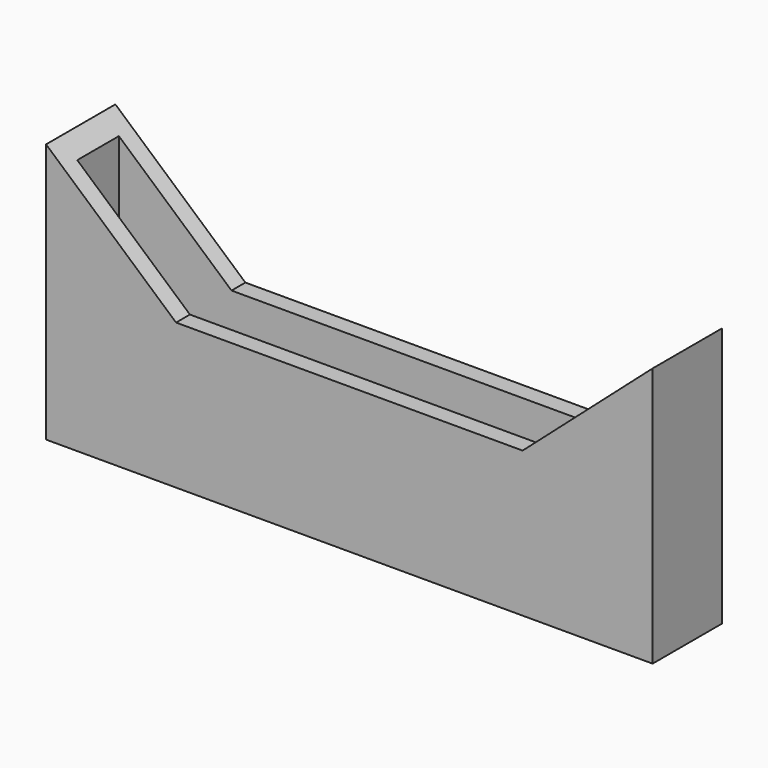
from build123d import *

# Parameters (mm, degrees)
F1_DEPTH = 12.7
F2_T     = -2.54
F3_W     = 9.652
F3_H     = 4.445
F4_DEPTH = 25.4


with BuildPart() as f1:
    # F0 (on Front) → F1 (new body)
    with BuildSketch(Plane.XZ):
        Polygon((-47.413333, 38.1), (-47.413333, 0), (41.486667, 0), (41.486667, 38.1), (22.436667, 21.299479), (-28.363333, 21.299479), align=None)
    extrude(amount=-F1_DEPTH)

    # F2
    f2_openings = [f1.faces().sort_by_distance(p)[0] for p in [
        (-2.963333, 6.35, 21.299479),
        (-37.888333, 6.35, 29.69974),
        (31.961667, 6.35, 29.69974),
    ]]
    offset(amount=F2_T, openings=f2_openings)

    # F3 (on Top) → F4 (cut)
    with BuildSketch(Plane.XY):
        with Locations((-2.963333, 6.866706)):
            Rectangle(F3_W, F3_H)
    extrude(amount=F4_DEPTH, mode=Mode.SUBTRACT)


solid = f1.part
